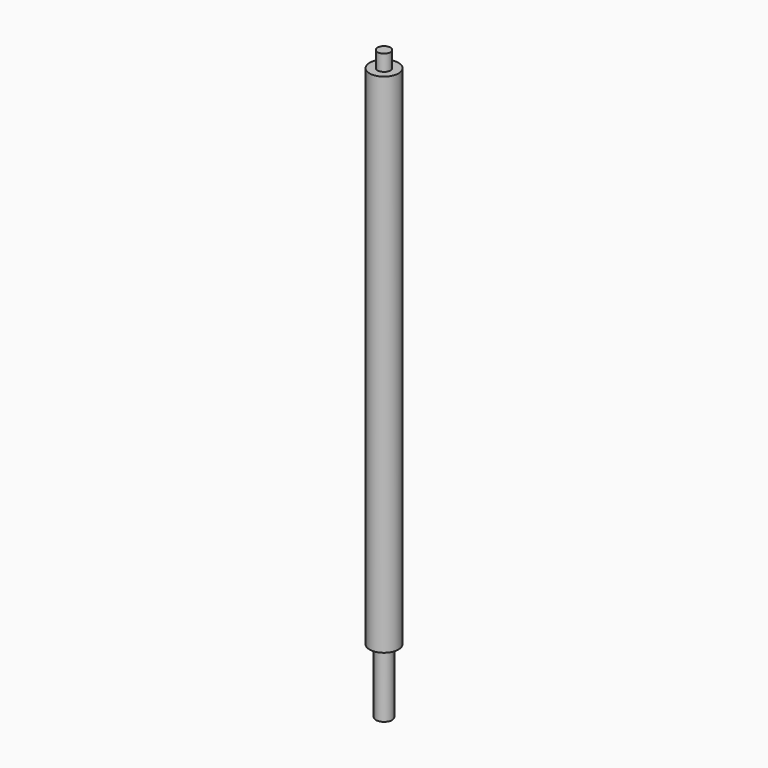
from build123d import *

# Parameters (mm, degrees)
F0_W   = 4
F0_H   = 10
F0_W_2 = 5
F0_H_2 = 40


with BuildPart() as f1:
    # F0 (on Front) → F1 (revolve)
    with BuildSketch(Plane.XZ):
        with Locations((2, 361)):
            Rectangle(F0_W, F0_H)
        Polygon((0, 356), (0, 40), (5, 40), (9, 40), (9, 356), (4, 356), align=None)
        with Locations((2.5, 20)):
            Rectangle(F0_W_2, F0_H_2)
    revolve(axis=Axis((0, 0, 183), (0, 0, -1)))


solid = f1.part
